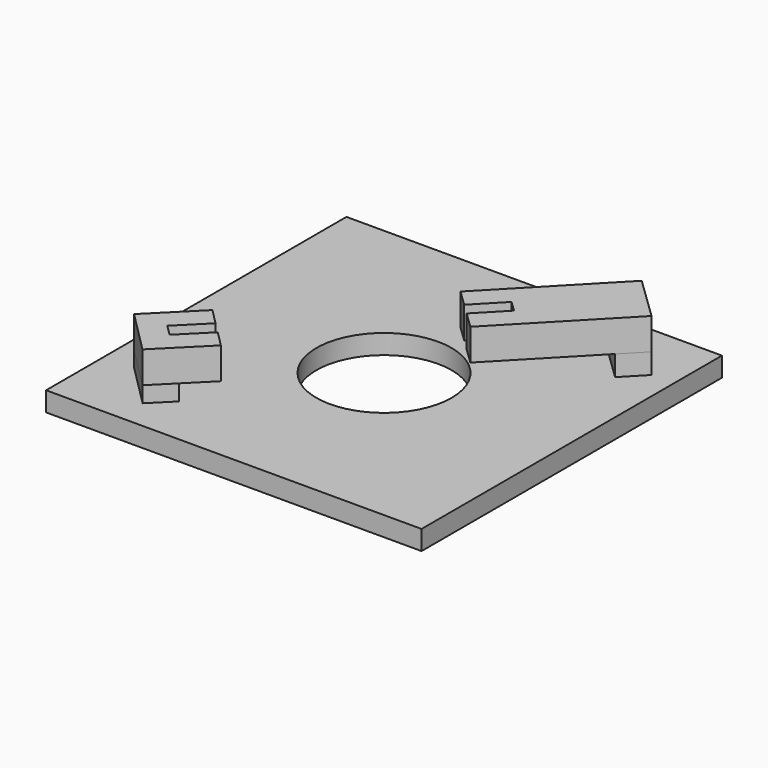
from build123d import *

# Parameters (mm, degrees)
SKETCH005_AS_DRAWN_W                      = 1.980982
SKETCH005_AS_DRAWN_H                      = 4.975241
EXTRUDE002_DEPTH                          = 4.5
EXTRUDE002_ONTO_SKETCH005_PLACEMENT_ANGLE = 136
BOX004_W                                  = 8
BOX004_H                                  = 19
BOX004_DEPTH                              = 4.2
BOX004_PLACEMENT_ANGLE                    = 136
BOX002_W                                  = 8
BOX002_H                                  = 3.8
BOX002_DEPTH                              = 2.8
BOX002_PLACEMENT_ANGLE                    = 136
SKETCH006_AS_DRAWN_W                      = 2.041283
SKETCH006_AS_DRAWN_H                      = 5.043286
EXTRUDE003_DEPTH                          = 4.5
EXTRUDE003_ONTO_SKETCH006_PLACEMENT_ANGLE = 135
BOX003_W                                  = 8
BOX003_H                                  = 8.2
BOX003_DEPTH                              = 4.2
BOX003_PLACEMENT_ANGLE                    = 135
BOX001_W                                  = 8
BOX001_H                                  = 3.8
BOX001_DEPTH                              = 2.8
BOX001_PLACEMENT_ANGLE                    = 135
CYLINDER_R                                = 9
CYLINDER_DEPTH                            = 2.6
BOX_W                                     = 50
BOX_H                                     = 50
BOX_DEPTH                                 = 2.6


with BuildPart() as extrude002:
    # Sketch005 as drawn → Extrude002 (new)
    with BuildSketch(Plane.XY):
        with Locations((4.011816, 16.518235)):
            Rectangle(SKETCH005_AS_DRAWN_W, SKETCH005_AS_DRAWN_H)
    extrude(amount=EXTRUDE002_DEPTH)


with BuildPart() as extrude002_1:
    # Extrude002 onto Sketch005 placement: moved
    add(extrude002.part.moved(Location((47.02, 42.01, 12.52))).rotate(Axis((47.02, 42.01, 12.52), (0, 0, 1)), EXTRUDE002_ONTO_SKETCH005_PLACEMENT_ANGLE))


with BuildPart() as extrude002_2:
    # Extrude002 placement: moved
    add(extrude002_1.part.moved(Location((0, 0, -4.5))))


with BuildPart() as cut003:
    # Box004 → Box004 (new body)
    with BuildSketch(Plane.XY):
        with Locations((4, 9.5)):
            Rectangle(BOX004_W, BOX004_H)
    extrude(amount=BOX004_DEPTH)


with BuildPart() as cut003_1:
    # Box004 placement: moved
    add(cut003.part.moved(Location((47.02, 42.01, 8.32))).rotate(Axis((47.02, 42.01, 8.32), (0, 0, 1)), BOX004_PLACEMENT_ANGLE))

    # Cut003: cut Extrude002
    add(extrude002_2.part, mode=Mode.SUBTRACT)


with BuildPart() as cut003_2:
    # Cut003 placement: moved
    add(cut003_1.part.moved(Location((0, 0, -3))))


with BuildPart() as fusion:
    # Box002 → Box002 (new body)
    with BuildSketch(Plane.XY):
        with Locations((4, 1.9)):
            Rectangle(BOX002_W, BOX002_H)
    extrude(amount=BOX002_DEPTH)


with BuildPart() as fusion_1:
    # Box002 placement: moved
    add(fusion.part.moved(Location((47, 42, 2.6))).rotate(Axis((47, 42, 2.6), (0, 0, 1)), BOX002_PLACEMENT_ANGLE))

    # Fusion: union Cut003
    add(cut003_2.part)


with BuildPart() as extrude003:
    # Sketch006 as drawn → Extrude003 (new)
    with BuildSketch(Plane.XY):
        with Locations((3.988122, 2.521643)):
            Rectangle(SKETCH006_AS_DRAWN_W, SKETCH006_AS_DRAWN_H)
    extrude(amount=EXTRUDE003_DEPTH)


with BuildPart() as extrude003_1:
    # Extrude003 onto Sketch006 placement: moved
    add(extrude003.part.moved(Location((15.55, 9.66, 12.99))).rotate(Axis((15.55, 9.66, 12.99), (0, 0, 1)), EXTRUDE003_ONTO_SKETCH006_PLACEMENT_ANGLE))


with BuildPart() as extrude003_2:
    # Extrude003 placement: moved
    add(extrude003_1.part.moved(Location((0, 0, -4.5))))


with BuildPart() as cut004:
    # Box003 → Box003 (new body)
    with BuildSketch(Plane.XY):
        with Locations((4, 4.1)):
            Rectangle(BOX003_W, BOX003_H)
    extrude(amount=BOX003_DEPTH)


with BuildPart() as cut004_1:
    # Box003 placement: moved
    add(cut004.part.moved(Location((15.55, 9.66, 8.79))).rotate(Axis((15.55, 9.66, 8.79), (0, 0, 1)), BOX003_PLACEMENT_ANGLE))

    # Cut004: cut Extrude003
    add(extrude003_2.part, mode=Mode.SUBTRACT)


with BuildPart() as cut004_2:
    # Cut004 placement: moved
    add(cut004_1.part.moved(Location((0, 0, -4))))


with BuildPart() as fusion001:
    # Box001 → Box001 (new body)
    with BuildSketch(Plane.XY):
        with Locations((4, 1.9)):
            Rectangle(BOX001_W, BOX001_H)
    extrude(amount=BOX001_DEPTH)


with BuildPart() as fusion001_1:
    # Box001 placement: moved
    add(fusion001.part.moved(Location((12.36, 6.67, 1.93))).rotate(Axis((12.36, 6.67, 1.93), (0, 0, 1)), BOX001_PLACEMENT_ANGLE))

    # Fusion001: union Cut004
    add(cut004_2.part)


with BuildPart() as cylinder:
    # Cylinder → Cylinder (new body)
    with BuildSketch(Plane(origin=(25, 25, 0), x_dir=(1, 0, 0), z_dir=(0, 0, 1))):
        Circle(CYLINDER_R)
    extrude(amount=CYLINDER_DEPTH)


with BuildPart() as fusion002:
    # Box → Box (new body)
    with BuildSketch(Plane.XY):
        with Locations((25, 25)):
            Rectangle(BOX_W, BOX_H)
    extrude(amount=BOX_DEPTH)

    # Cut: cut Cylinder
    add(cylinder.part, mode=Mode.SUBTRACT)

    # Fusion002: union Fusion, Fusion001
    add(fusion_1.part)
    add(fusion001_1.part)


solid = fusion002.part
